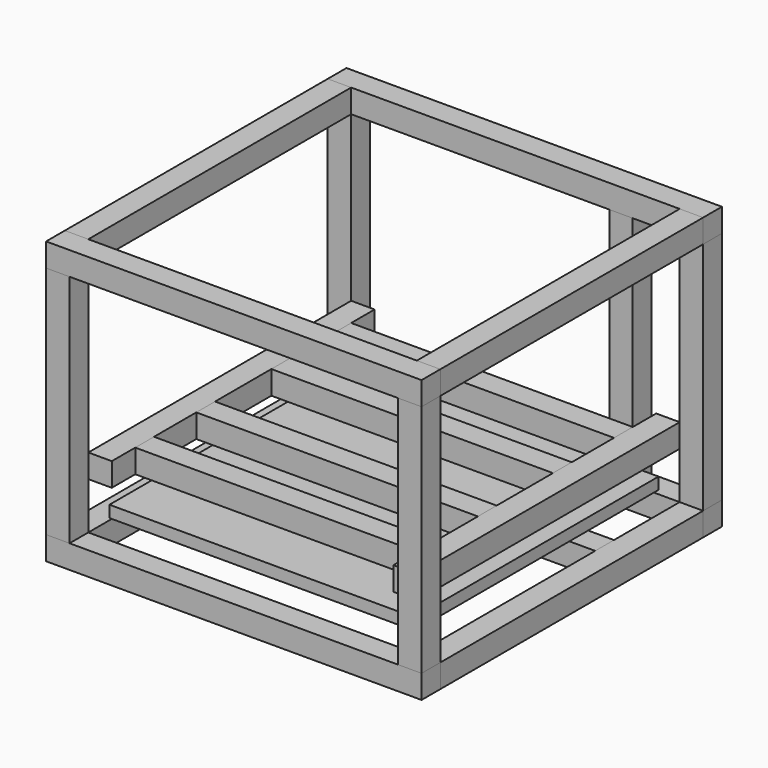
from build123d import *

# Parameters (mm, degrees)
BOX_W        = 32
BOX_H        = 2
BOX_DEPTH    = 2
BOX001_W     = 32
BOX001_H     = 2
BOX001_DEPTH = 2
BOX002_W     = 2
BOX002_H     = 2
BOX002_DEPTH = 20
BOX003_W     = 2
BOX003_H     = 2
BOX003_DEPTH = 20
BOX004_W     = 2
BOX004_H     = 28
BOX004_DEPTH = 2
BOX005_W     = 2
BOX005_H     = 28
BOX005_DEPTH = 2
BOX006_W     = 2
BOX006_H     = 28
BOX006_DEPTH = 2
BOX007_W     = 2
BOX007_H     = 28
BOX007_DEPTH = 2
BOX008_W     = 32
BOX008_H     = 2
BOX008_DEPTH = 2
BOX009_W     = 32
BOX009_H     = 2
BOX009_DEPTH = 2
BOX010_W     = 2
BOX010_H     = 2
BOX010_DEPTH = 20
BOX011_W     = 2
BOX011_H     = 2
BOX011_DEPTH = 20
BOX012_W     = 20
BOX012_H     = 3
BOX012_DEPTH = 2
BOX013_W     = 28
BOX013_H     = 2
BOX013_DEPTH = 2
BOX014_W     = 26
BOX014_H     = 26
BOX014_DEPTH = 1
BOX015_W     = 2
BOX015_H     = 2
BOX015_DEPTH = 20
BOX016_W     = 2
BOX016_H     = 28
BOX016_DEPTH = 2
BOX017_W     = 2
BOX017_H     = 28
BOX017_DEPTH = 2
BOX018_W     = 24
BOX018_H     = 2
BOX018_DEPTH = 2
BOX019_W     = 24
BOX019_H     = 2
BOX019_DEPTH = 2
BOX020_W     = 24
BOX020_H     = 2
BOX020_DEPTH = 2
BOX021_W     = 24
BOX021_H     = 2
BOX021_DEPTH = 2


with BuildPart() as box:
    # Box → Box (new body)
    with BuildSketch(Plane.XY):
        with Locations((16, 1)):
            Rectangle(BOX_W, BOX_H)
    extrude(amount=BOX_DEPTH)


with BuildPart() as box001:
    # Box001 → Box001 (new body)
    with BuildSketch(Plane.XY.offset(22)):
        with Locations((16, 1)):
            Rectangle(BOX001_W, BOX001_H)
    extrude(amount=BOX001_DEPTH)


with BuildPart() as box002:
    # Box002 → Box002 (new body)
    with BuildSketch(Plane.XY.offset(2)):
        with Locations((1, 1)):
            Rectangle(BOX002_W, BOX002_H)
    extrude(amount=BOX002_DEPTH)


with BuildPart() as box003:
    # Box003 → Box003 (new body)
    with BuildSketch(Plane(origin=(30, 0, 2), x_dir=(1, 0, 0), z_dir=(0, 0, 1))):
        with Locations((1, 1)):
            Rectangle(BOX003_W, BOX003_H)
    extrude(amount=BOX003_DEPTH)


with BuildPart() as box004:
    # Box004 → Box004 (new body)
    with BuildSketch(Plane(origin=(0, 2, 0), x_dir=(1, 0, 0), z_dir=(0, 0, 1))):
        with Locations((1, 14)):
            Rectangle(BOX004_W, BOX004_H)
    extrude(amount=BOX004_DEPTH)


with BuildPart() as box005:
    # Box005 → Box005 (new body)
    with BuildSketch(Plane(origin=(30, 2, 0), x_dir=(1, 0, 0), z_dir=(0, 0, 1))):
        with Locations((1, 14)):
            Rectangle(BOX005_W, BOX005_H)
    extrude(amount=BOX005_DEPTH)


with BuildPart() as box006:
    # Box006 → Box006 (new body)
    with BuildSketch(Plane(origin=(30, 2, 22), x_dir=(1, 0, 0), z_dir=(0, 0, 1))):
        with Locations((1, 14)):
            Rectangle(BOX006_W, BOX006_H)
    extrude(amount=BOX006_DEPTH)


with BuildPart() as box007:
    # Box007 → Box007 (new body)
    with BuildSketch(Plane(origin=(0, 2, 22), x_dir=(1, 0, 0), z_dir=(0, 0, 1))):
        with Locations((1, 14)):
            Rectangle(BOX007_W, BOX007_H)
    extrude(amount=BOX007_DEPTH)


with BuildPart() as box008:
    # Box008 → Box008 (new body)
    with BuildSketch(Plane(origin=(0, 30, 0), x_dir=(1, 0, 0), z_dir=(0, 0, 1))):
        with Locations((16, 1)):
            Rectangle(BOX008_W, BOX008_H)
    extrude(amount=BOX008_DEPTH)


with BuildPart() as box009:
    # Box009 → Box009 (new body)
    with BuildSketch(Plane(origin=(0, 30, 22), x_dir=(1, 0, 0), z_dir=(0, 0, 1))):
        with Locations((16, 1)):
            Rectangle(BOX009_W, BOX009_H)
    extrude(amount=BOX009_DEPTH)


with BuildPart() as box010:
    # Box010 → Box010 (new body)
    with BuildSketch(Plane(origin=(0, 30, 2), x_dir=(1, 0, 0), z_dir=(0, 0, 1))):
        with Locations((1, 1)):
            Rectangle(BOX010_W, BOX010_H)
    extrude(amount=BOX010_DEPTH)


with BuildPart() as box011:
    # Box011 → Box011 (new body)
    with BuildSketch(Plane(origin=(30, 30, 2), x_dir=(1, 0, 0), z_dir=(0, 0, 1))):
        with Locations((1, 1)):
            Rectangle(BOX011_W, BOX011_H)
    extrude(amount=BOX011_DEPTH)


with BuildPart() as box012:
    # Box012 → Box012 (new body)
    with BuildSketch(Plane(origin=(2, 10, 0), x_dir=(1, 0, 0), z_dir=(0, 0, 1))):
        with Locations((10, 1.5)):
            Rectangle(BOX012_W, BOX012_H)
    extrude(amount=BOX012_DEPTH)


with BuildPart() as box013:
    # Box013 → Box013 (new body)
    with BuildSketch(Plane(origin=(2, 21, 0), x_dir=(1, 0, 0), z_dir=(0, 0, 1))):
        with Locations((14, 1)):
            Rectangle(BOX013_W, BOX013_H)
    extrude(amount=BOX013_DEPTH)


with BuildPart() as heated_bed:
    # Box014 → Box014 (new body)
    with BuildSketch(Plane(origin=(3, 3, 3), x_dir=(1, 0, 0), z_dir=(0, 0, 1))):
        with Locations((13, 13)):
            Rectangle(BOX014_W, BOX014_H)
    extrude(amount=BOX014_DEPTH)


with BuildPart() as box015:
    # Box015 → Box015 (new body)
    with BuildSketch(Plane(origin=(24, 30, 2), x_dir=(1, 0, 0), z_dir=(0, 0, 1))):
        with Locations((1, 1)):
            Rectangle(BOX015_W, BOX015_H)
    extrude(amount=BOX015_DEPTH)


with BuildPart() as box016:
    # Box016 → Box016 (new body)
    with BuildSketch(Plane(origin=(2, 2, 6), x_dir=(1, 0, 0), z_dir=(0, 0, 1))):
        with Locations((1, 14)):
            Rectangle(BOX016_W, BOX016_H)
    extrude(amount=BOX016_DEPTH)


with BuildPart() as box017:
    # Box017 → Box017 (new body)
    with BuildSketch(Plane(origin=(28, 2, 6), x_dir=(1, 0, 0), z_dir=(0, 0, 1))):
        with Locations((1, 14)):
            Rectangle(BOX017_W, BOX017_H)
    extrude(amount=BOX017_DEPTH)


with BuildPart() as box018:
    # Box018 → Box018 (new body)
    with BuildSketch(Plane(origin=(4, 4.5, 6), x_dir=(1, 0, 0), z_dir=(0, 0, 1))):
        with Locations((12, 1)):
            Rectangle(BOX018_W, BOX018_H)
    extrude(amount=BOX018_DEPTH)


with BuildPart() as box019:
    # Box019 → Box019 (new body)
    with BuildSketch(Plane(origin=(4, 25.5, 6), x_dir=(1, 0, 0), z_dir=(0, 0, 1))):
        with Locations((12, 1)):
            Rectangle(BOX019_W, BOX019_H)
    extrude(amount=BOX019_DEPTH)


with BuildPart() as box020:
    # Box020 → Box020 (new body)
    with BuildSketch(Plane(origin=(4, 19, 6), x_dir=(1, 0, 0), z_dir=(0, 0, 1))):
        with Locations((12, 1)):
            Rectangle(BOX020_W, BOX020_H)
    extrude(amount=BOX020_DEPTH)


with BuildPart() as box021:
    # Box021 → Box021 (new body)
    with BuildSketch(Plane(origin=(4, 11, 6), x_dir=(1, 0, 0), z_dir=(0, 0, 1))):
        with Locations((12, 1)):
            Rectangle(BOX021_W, BOX021_H)
    extrude(amount=BOX021_DEPTH)


solid = Compound([box.part, box001.part, box002.part, box003.part, box004.part, box005.part, box006.part, box007.part, box008.part, box009.part, box010.part, box011.part, box012.part, box013.part, heated_bed.part, box015.part, box016.part, box017.part, box018.part, box019.part, box020.part, box021.part])
